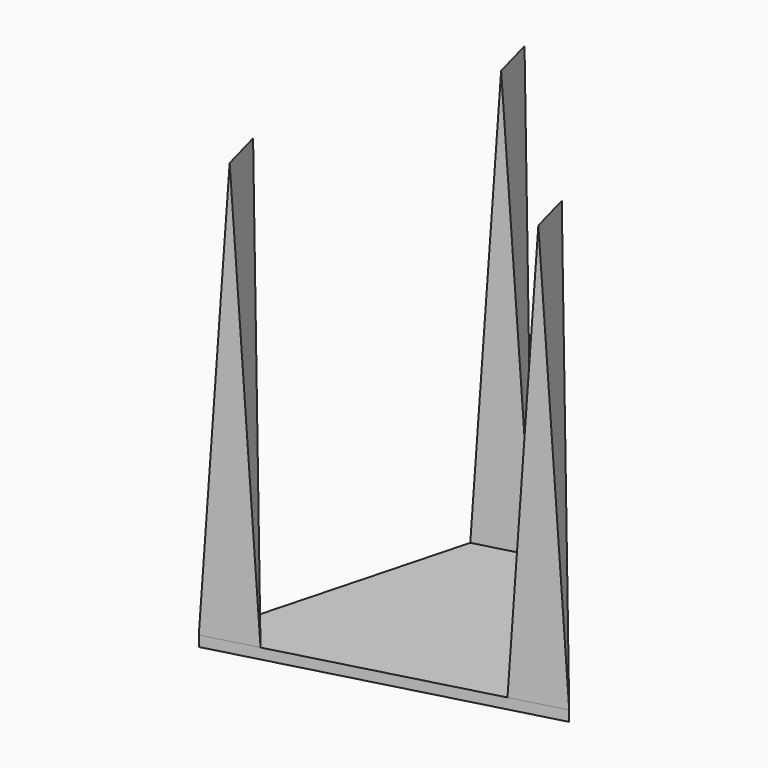
from build123d import *

# Parameters (mm, degrees)
F1_DEPTH = 1
F3_DEPTH = 40
F5_DEPTH = 4.3311270189
F7_DEPTH = 25


with BuildPart() as f1:
    # F0 (on Top) → F1 (new body)
    with BuildSketch(Plane.XY):
        Polygon((2.8322214563, 24.2100603602), (-4.9323490894, -4.7677146448), (24.045425483, 2.9968575157), align=None)
    extrude(amount=F1_DEPTH)

    # F2 (on face) → F3 (join)
    with BuildSketch(Plane.XY.offset(1)):
        Polygon((-3.6382539984, 0.0619145227), (-4.9323490894, -4.7677146448), (-0.102719994, -3.4736192847), align=None)
        Polygon((6.3677554607, 20.6745265528), (2.8322214563, 24.2100603602), (1.5381263653, 19.3804311927), align=None)
        Polygon((19.2157963876, 1.7027621556), (24.045425483, 2.9968575157), (20.5098914785, 6.5323913231), align=None)
    extrude(amount=F3_DEPTH)

    # F4 (on face) → F5 (cut, through all)
    with BuildSketch(Plane(origin=(0.8615239687, -3.2152508648, 0), x_dir=(0.9659258191, 0.258819072, 0), z_dir=(0.258819072, -0.9659258191, 0))):
        Polygon((-5.9982588141, 41), (-5.9982588141, 1), (-3.4982588141, 41), align=None)
        Polygon((21.5017411859, 41), (24.0017411859, 1), (24.0017411859, 41), align=None)
        Polygon((-0.9982588141, 41), (-3.4982588141, 41), (-0.9982588141, 1), align=None)
        Polygon((19.0017411859, 41), (19.0017411859, 1), (21.5017411859, 41), align=None)
    extrude(amount=-F5_DEPTH, mode=Mode.SUBTRACT)

    # F6 (on face) → F7 (cut)
    with BuildSketch(Plane(origin=(-4.742073315, 17.6976565725, 0), x_dir=(0.9659258191, 0.258819072, 0), z_dir=(0.258819072, -0.9659258191, 0))):
        Polygon((6.5017411859, 41), (6.5017411859, 1), (9.0017411859, 41), align=None)
        Polygon((11.5017411859, 41), (9.0017411859, 41), (11.5017411859, 1), align=None)
    extrude(amount=-F7_DEPTH, mode=Mode.SUBTRACT)


solid = f1.part
